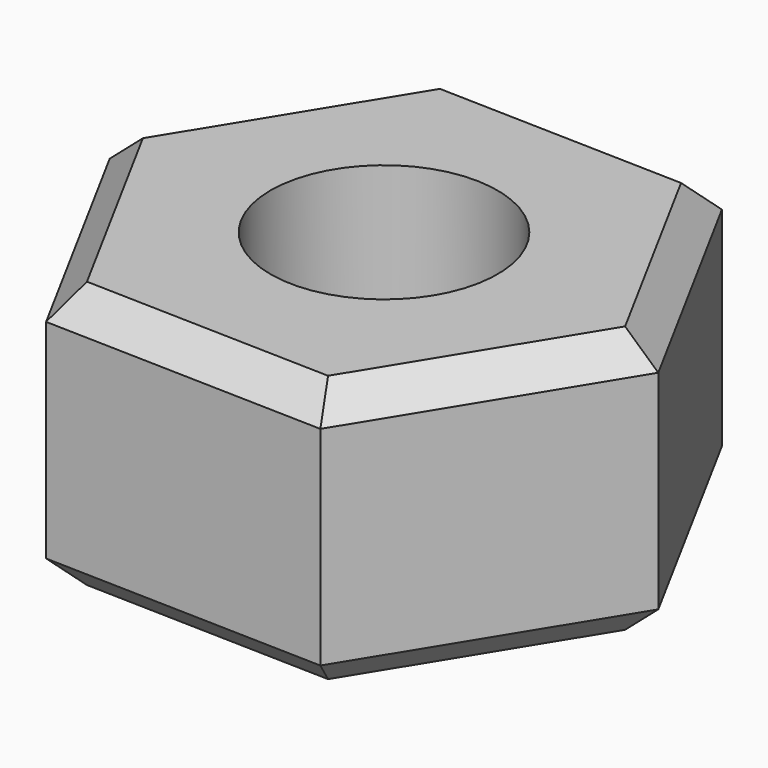
from build123d import *

# Parameters (mm, degrees)
F1_DEPTH = 10
F3_D     = 8.5
F4_SIZE  = 1.1


with BuildPart() as f1:
    # F0 (on Top) → F1 (new body)
    with BuildSketch(Plane.XY):
        Polygon((10.4961740703, -0.2834252726), (5.4935405213, 8.9482407512), (-5.0026335491, 9.2316660237), (-10.4961740703, 0.2834252726), (-5.4935405213, -8.9482407512), (5.0026335491, -9.2316660237), align=None)
    extrude(amount=F1_DEPTH)

    # F3 (through all)
    with Locations(Plane.XY.offset(10)):
        with Locations((0, 0)):
            Hole(F3_D / 2)

    # F4
    f4_edges = [f1.edges().sort_by_distance(p)[0] for p in [
        (-7.994857, -4.332408, 10),
        (-7.749404, 4.757546, 10),
        (0.245453, 9.089953, 10),
        (7.994857, 4.332408, 10),
        (7.749404, -4.757546, 10),
        (-0.245453, -9.089953, 10),
        (-0.245453, -9.089953, 0),
        (7.749404, -4.757546, 0),
        (7.994857, 4.332408, 0),
        (0.245453, 9.089953, 0),
        (-7.749404, 4.757546, 0),
        (-7.994857, -4.332408, 0),
    ]]
    chamfer(f4_edges, length=F4_SIZE)


solid = f1.part
